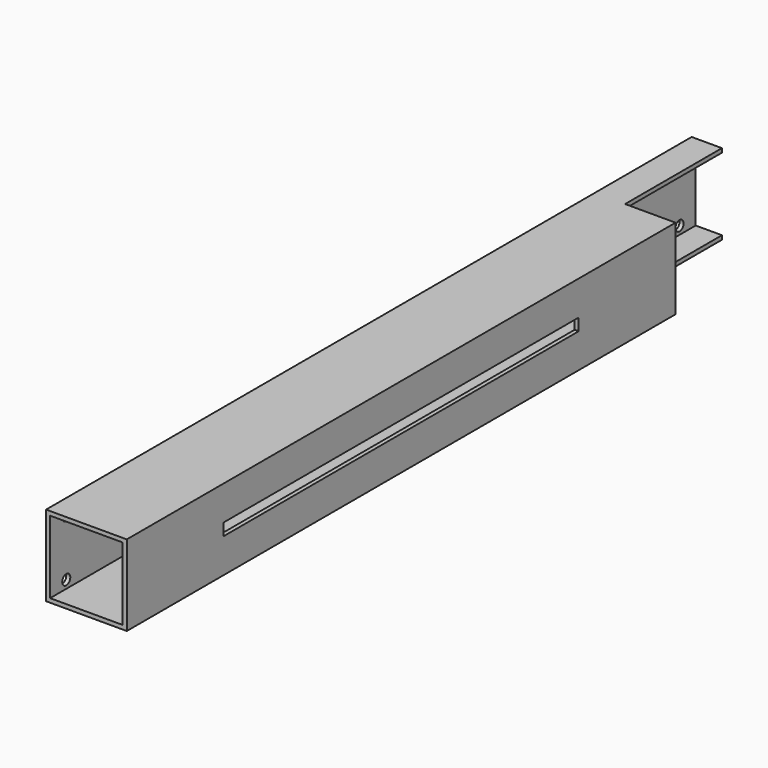
from build123d import *

# Parameters (mm, degrees)
F0_W     = 40
F0_H     = 40
F0_W_2   = 36
F0_H_2   = 36
F1_DEPTH = 400
F2_W     = 220
F2_H     = 6
F3_DEPTH = 2
F5_DEPTH = 60
F6_R     = 2.5
F7_DEPTH = 25


with BuildPart() as f1:
    # F0 (on Front) → F1 (new body)
    with BuildSketch(Plane.XZ):
        Rectangle(F0_W, F0_H)
        Rectangle(F0_W_2, F0_H_2, mode=Mode.SUBTRACT)
    extrude(amount=F1_DEPTH)

    # F2 (on face) → F3 (cut)
    with BuildSketch(Plane.YZ.offset(20)):
        with Locations((-230, 0)):
            Rectangle(F2_W, F2_H)
    extrude(amount=-F3_DEPTH, mode=Mode.SUBTRACT)

    # F4 (on Front) → F5 (cut)
    with BuildSketch(Plane.XZ):
        Polygon((-5, -18), (-5, -20), (20, -20), (20, 20), (-5, 20), (-5, 18), (18, 18), (18, -18), align=None)
    extrude(amount=F5_DEPTH, mode=Mode.SUBTRACT)

    # F6 (on face) → F7 (cut)
    with BuildSketch(Plane(origin=(-20, 0, 0), x_dir=(0, -1, 0), z_dir=(-1, 0, 0))):
        with Locations((10, 14)):
            Circle(F6_R)
        with Locations((10, -14)):
            Circle(F6_R)
        with Locations((390, 14)):
            Circle(F6_R)
        with Locations((390, -14)):
            Circle(F6_R)
    extrude(amount=-F7_DEPTH, mode=Mode.SUBTRACT)


solid = f1.part
